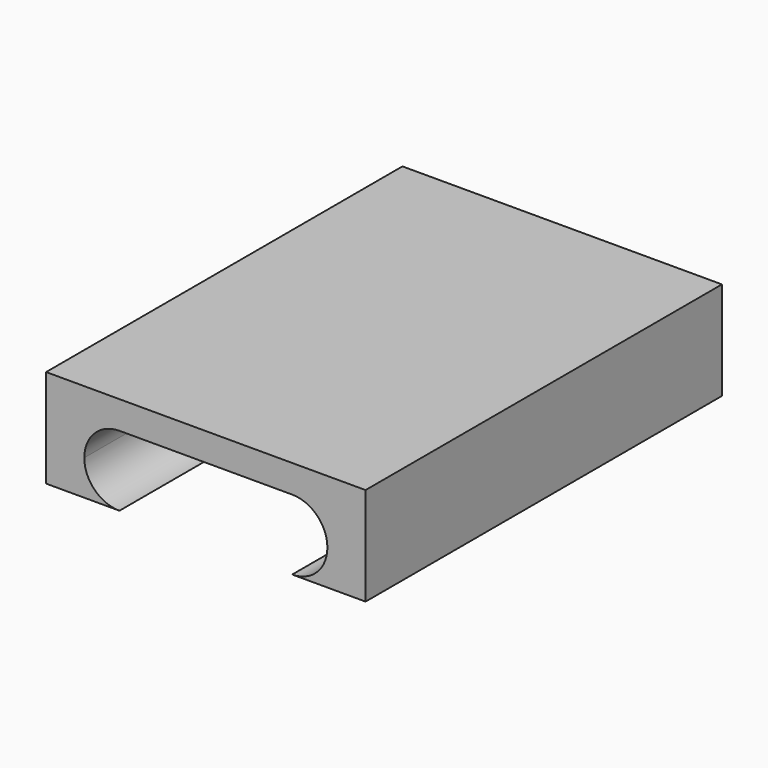
from build123d import *

# Parameters (mm, degrees)
F1_DEPTH = 101.6


with BuildPart() as f1:
    # F0 (on Front) → F1 (new body)
    with BuildSketch(Plane.XZ):
        Polygon((23.185539, 34.638372), (-49.687061, 34.638372), (-49.687061, 28.288372), (-32.948462, 28.288372), (-23.702861, 28.288372), (-2.798661, 28.288372), (6.446939, 28.288372), (23.185539, 28.288372), align=None)
        with BuildLine():
            Line((-32.948462, 28.288372), (-49.687061, 28.288372))
            Line((-49.687061, 28.288372), (-49.687061, 20.261972))
            Line((-49.687061, 20.261972), (-40.974861, 20.261972))
            ThreePointArc((-40.974861, 20.261972), (-38.623983, 25.937493), (-32.948462, 28.288372))
        make_face()
        with BuildLine():
            Line((-40.974861, 20.261972), (-49.687061, 20.261972))
            Line((-49.687061, 20.261972), (-49.687061, 12.235572))
            Line((-49.687061, 12.235572), (-32.948461, 12.235572))
            ThreePointArc((-32.948461, 12.235572), (-38.623983, 14.58645), (-40.974861, 20.261972))
        make_face()
        with BuildLine():
            Line((23.185539, 20.261972), (23.185539, 28.288372))
            Line((23.185539, 28.288372), (6.446939, 28.288372))
            ThreePointArc((6.446939, 28.288372), (12.12246, 25.937493), (14.473339, 20.261972))
            Line((14.473339, 20.261972), (23.185539, 20.261972))
        make_face()
        with BuildLine():
            Line((23.185539, 12.235572), (23.185539, 20.261972))
            Line((23.185539, 20.261972), (14.473339, 20.261972))
            ThreePointArc((14.473339, 20.261972), (12.12246, 14.58645), (6.446939, 12.235572))
            Line((6.446939, 12.235572), (23.185539, 12.235572))
        make_face()
    extrude(amount=F1_DEPTH)


solid = f1.part
